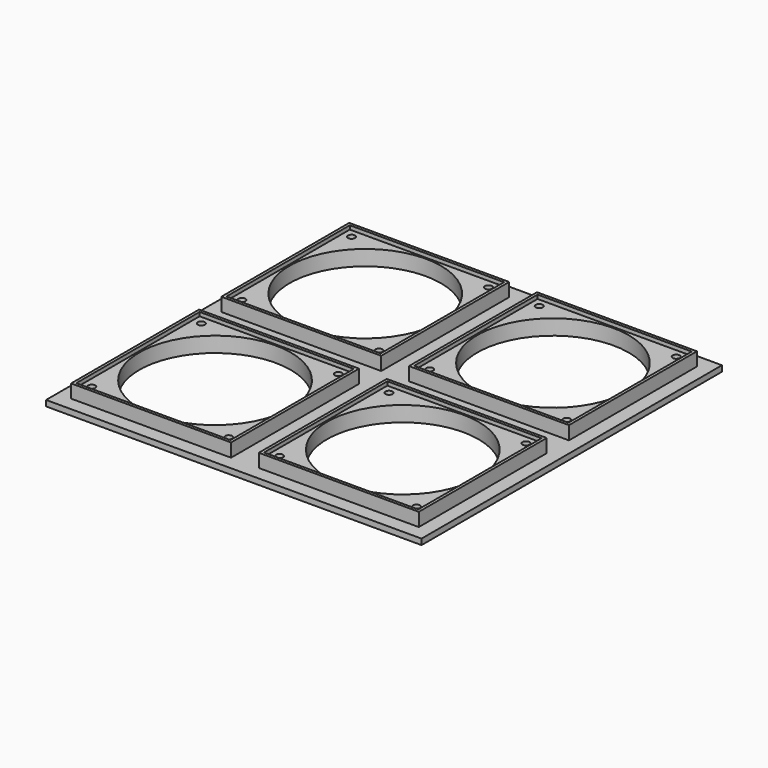
from build123d import *

# Parameters (mm, degrees)
SKETCH009_W     = 98
SKETCH009_H     = 98
PAD003_DEPTH    = 3
SKETCH006_W     = 83.5
SKETCH006_H     = 83.5
PAD002_DEPTH    = 7
SKETCH011_R     = 39.5
POCKET007_DEPTH = 10
SKETCH007_W     = 80.5
SKETCH007_H     = 80.5
POCKET004_DEPTH = 2
SKETCH010_R     = 1.85
POCKET006_DEPTH = 8
SKETCH008_R     = 2.75
POCKET005_DEPTH = 5
CHAMFER001_SIZE = 0.5
SKETCH015_W     = 98
SKETCH015_H     = 98
PAD005_DEPTH    = 3
SKETCH012_W     = 83.5
SKETCH012_H     = 83.5
PAD004_DEPTH    = 7
SKETCH017_R     = 39.5
POCKET011_DEPTH = 10
SKETCH013_W     = 80.5
SKETCH013_H     = 80.5
POCKET008_DEPTH = 2
SKETCH016_R     = 1.85
POCKET010_DEPTH = 8
SKETCH014_R     = 2.75
POCKET009_DEPTH = 5
CHAMFER002_SIZE = 0.5
SKETCH021_W     = 98
SKETCH021_H     = 98
PAD007_DEPTH    = 3
SKETCH018_W     = 83.5
SKETCH018_H     = 83.5
PAD006_DEPTH    = 7
SKETCH023_R     = 39.5
POCKET015_DEPTH = 10
SKETCH019_W     = 80.5
SKETCH019_H     = 80.5
POCKET012_DEPTH = 2
SKETCH022_R     = 1.85
POCKET014_DEPTH = 8
SKETCH020_R     = 2.75
POCKET013_DEPTH = 5
CHAMFER003_SIZE = 0.5
SKETCH_W        = 98
SKETCH_H        = 98
PAD_DEPTH       = 3
SKETCH001_W     = 83.5
SKETCH001_H     = 83.5
PAD001_DEPTH    = 7
SKETCH002_R     = 39.5
POCKET_DEPTH    = 10
SKETCH003_W     = 80.5
SKETCH003_H     = 80.5
POCKET001_DEPTH = 2
SKETCH004_R     = 1.85
POCKET002_DEPTH = 8
SKETCH005_R     = 2.75
POCKET003_DEPTH = 5
CHAMFER_SIZE    = 0.5


with BuildPart() as body001:
    # Sketch009 → Pad003 (new body)
    with BuildSketch(Plane.XY):
        Rectangle(SKETCH009_W, SKETCH009_H)
    extrude(amount=PAD003_DEPTH)

    # Sketch006 (on Face6 of Pad003) → Pad002 (join)
    with BuildSketch(Plane.XY.offset(3)):
        Rectangle(SKETCH006_W, SKETCH006_H)
    extrude(amount=PAD002_DEPTH)

    # Sketch011 (on Face11 of Pad002) → Pocket007 (cut)
    with BuildSketch(Plane.XY.offset(10)):
        Circle(SKETCH011_R)
    extrude(amount=-POCKET007_DEPTH, mode=Mode.SUBTRACT)

    # Sketch007 (on Face12 of Pocket007) → Pocket004 (cut)
    with BuildSketch(Plane.XY.offset(10)):
        Rectangle(SKETCH007_W, SKETCH007_H)
    extrude(amount=-POCKET004_DEPTH, mode=Mode.SUBTRACT)

    # Sketch010 (on Face12 of Pocket004) → Pocket006 (cut)
    with BuildSketch(Plane.XY.offset(8)):
        with Locations((-35.75, 35.75)):
            Circle(SKETCH010_R)
        with Locations((35.75, 35.75)):
            Circle(SKETCH010_R)
        with Locations((35.75, -35.75)):
            Circle(SKETCH010_R)
        with Locations((-35.75, -35.75)):
            Circle(SKETCH010_R)
    extrude(amount=-POCKET006_DEPTH, mode=Mode.SUBTRACT)

    # Sketch008 (on Face4 of Pocket006) → Pocket005 (cut)
    with BuildSketch(Plane(origin=(0, 0, 0), x_dir=(1, 0, 0), z_dir=(0, 0, -1))):
        with Locations((-35.75, 35.75)):
            Circle(SKETCH008_R)
        with Locations((35.75, 35.75)):
            Circle(SKETCH008_R)
        with Locations((35.75, -35.75)):
            Circle(SKETCH008_R)
        with Locations((-35.75, -35.75)):
            Circle(SKETCH008_R)
    extrude(amount=-POCKET005_DEPTH, mode=Mode.SUBTRACT)

    # Chamfer001
    chamfer001_edges = [body001.edges().sort_by_distance(p)[0] for p in [
        (33, 35.75, 0),
        (33, -35.75, 0),
        (-38.5, -35.75, 0),
        (-38.5, 35.75, 0),
    ]]
    chamfer(chamfer001_edges, length=CHAMFER001_SIZE)


with BuildPart() as body001_1:
    # Body001 placement: moved
    add(body001.part.moved(Location((98, 0, 0))))


with BuildPart() as body002:
    # Sketch015 → Pad005 (new body)
    with BuildSketch(Plane.XY):
        Rectangle(SKETCH015_W, SKETCH015_H)
    extrude(amount=PAD005_DEPTH)

    # Sketch012 (on Face6 of Pad005) → Pad004 (join)
    with BuildSketch(Plane.XY.offset(3)):
        Rectangle(SKETCH012_W, SKETCH012_H)
    extrude(amount=PAD004_DEPTH)

    # Sketch017 (on Face11 of Pad004) → Pocket011 (cut)
    with BuildSketch(Plane.XY.offset(10)):
        Circle(SKETCH017_R)
    extrude(amount=-POCKET011_DEPTH, mode=Mode.SUBTRACT)

    # Sketch013 (on Face12 of Pocket011) → Pocket008 (cut)
    with BuildSketch(Plane.XY.offset(10)):
        Rectangle(SKETCH013_W, SKETCH013_H)
    extrude(amount=-POCKET008_DEPTH, mode=Mode.SUBTRACT)

    # Sketch016 (on Face12 of Pocket008) → Pocket010 (cut)
    with BuildSketch(Plane.XY.offset(8)):
        with Locations((-35.75, 35.75)):
            Circle(SKETCH016_R)
        with Locations((35.75, 35.75)):
            Circle(SKETCH016_R)
        with Locations((35.75, -35.75)):
            Circle(SKETCH016_R)
        with Locations((-35.75, -35.75)):
            Circle(SKETCH016_R)
    extrude(amount=-POCKET010_DEPTH, mode=Mode.SUBTRACT)

    # Sketch014 (on Face4 of Pocket010) → Pocket009 (cut)
    with BuildSketch(Plane(origin=(0, 0, 0), x_dir=(1, 0, 0), z_dir=(0, 0, -1))):
        with Locations((-35.75, 35.75)):
            Circle(SKETCH014_R)
        with Locations((35.75, 35.75)):
            Circle(SKETCH014_R)
        with Locations((35.75, -35.75)):
            Circle(SKETCH014_R)
        with Locations((-35.75, -35.75)):
            Circle(SKETCH014_R)
    extrude(amount=-POCKET009_DEPTH, mode=Mode.SUBTRACT)

    # Chamfer002
    chamfer002_edges = [body002.edges().sort_by_distance(p)[0] for p in [
        (33, 35.75, 0),
        (33, -35.75, 0),
        (-38.5, -35.75, 0),
        (-38.5, 35.75, 0),
    ]]
    chamfer(chamfer002_edges, length=CHAMFER002_SIZE)


with BuildPart() as body002_1:
    # Body002 placement: moved
    add(body002.part.moved(Location((0, 98, 0))))


with BuildPart() as body003:
    # Sketch021 → Pad007 (new body)
    with BuildSketch(Plane.XY):
        Rectangle(SKETCH021_W, SKETCH021_H)
    extrude(amount=PAD007_DEPTH)

    # Sketch018 (on Face6 of Pad007) → Pad006 (join)
    with BuildSketch(Plane.XY.offset(3)):
        Rectangle(SKETCH018_W, SKETCH018_H)
    extrude(amount=PAD006_DEPTH)

    # Sketch023 (on Face11 of Pad006) → Pocket015 (cut)
    with BuildSketch(Plane.XY.offset(10)):
        Circle(SKETCH023_R)
    extrude(amount=-POCKET015_DEPTH, mode=Mode.SUBTRACT)

    # Sketch019 (on Face12 of Pocket015) → Pocket012 (cut)
    with BuildSketch(Plane.XY.offset(10)):
        Rectangle(SKETCH019_W, SKETCH019_H)
    extrude(amount=-POCKET012_DEPTH, mode=Mode.SUBTRACT)

    # Sketch022 (on Face12 of Pocket012) → Pocket014 (cut)
    with BuildSketch(Plane.XY.offset(8)):
        with Locations((-35.75, 35.75)):
            Circle(SKETCH022_R)
        with Locations((35.75, 35.75)):
            Circle(SKETCH022_R)
        with Locations((35.75, -35.75)):
            Circle(SKETCH022_R)
        with Locations((-35.75, -35.75)):
            Circle(SKETCH022_R)
    extrude(amount=-POCKET014_DEPTH, mode=Mode.SUBTRACT)

    # Sketch020 (on Face4 of Pocket014) → Pocket013 (cut)
    with BuildSketch(Plane(origin=(0, 0, 0), x_dir=(1, 0, 0), z_dir=(0, 0, -1))):
        with Locations((-35.75, 35.75)):
            Circle(SKETCH020_R)
        with Locations((35.75, 35.75)):
            Circle(SKETCH020_R)
        with Locations((35.75, -35.75)):
            Circle(SKETCH020_R)
        with Locations((-35.75, -35.75)):
            Circle(SKETCH020_R)
    extrude(amount=-POCKET013_DEPTH, mode=Mode.SUBTRACT)

    # Chamfer003
    chamfer003_edges = [body003.edges().sort_by_distance(p)[0] for p in [
        (33, 35.75, 0),
        (33, -35.75, 0),
        (-38.5, -35.75, 0),
        (-38.5, 35.75, 0),
    ]]
    chamfer(chamfer003_edges, length=CHAMFER003_SIZE)


with BuildPart() as body003_1:
    # Body003 placement: moved
    add(body003.part.moved(Location((98, 98, 0))))


with BuildPart() as body004:
    # Sketch → Pad (new body)
    with BuildSketch(Plane.XY):
        Rectangle(SKETCH_W, SKETCH_H)
    extrude(amount=PAD_DEPTH)

    # Sketch001 (on Face6 of Pad) → Pad001 (join)
    with BuildSketch(Plane.XY.offset(3)):
        Rectangle(SKETCH001_W, SKETCH001_H)
    extrude(amount=PAD001_DEPTH)

    # Sketch002 (on Face11 of Pad001) → Pocket (cut)
    with BuildSketch(Plane.XY.offset(10)):
        Circle(SKETCH002_R)
    extrude(amount=-POCKET_DEPTH, mode=Mode.SUBTRACT)

    # Sketch003 (on Face12 of Pocket) → Pocket001 (cut)
    with BuildSketch(Plane.XY.offset(10)):
        Rectangle(SKETCH003_W, SKETCH003_H)
    extrude(amount=-POCKET001_DEPTH, mode=Mode.SUBTRACT)

    # Sketch004 (on Face12 of Pocket001) → Pocket002 (cut)
    with BuildSketch(Plane.XY.offset(8)):
        with Locations((-35.75, 35.75)):
            Circle(SKETCH004_R)
        with Locations((35.75, 35.75)):
            Circle(SKETCH004_R)
        with Locations((35.75, -35.75)):
            Circle(SKETCH004_R)
        with Locations((-35.75, -35.75)):
            Circle(SKETCH004_R)
    extrude(amount=-POCKET002_DEPTH, mode=Mode.SUBTRACT)

    # Sketch005 (on Face4 of Pocket002) → Pocket003 (cut)
    with BuildSketch(Plane(origin=(0, 0, 0), x_dir=(1, 0, 0), z_dir=(0, 0, -1))):
        with Locations((-35.75, 35.75)):
            Circle(SKETCH005_R)
        with Locations((35.75, 35.75)):
            Circle(SKETCH005_R)
        with Locations((35.75, -35.75)):
            Circle(SKETCH005_R)
        with Locations((-35.75, -35.75)):
            Circle(SKETCH005_R)
    extrude(amount=-POCKET003_DEPTH, mode=Mode.SUBTRACT)

    # Chamfer
    chamfer_edges = [body004.edges().sort_by_distance(p)[0] for p in [
        (33, 35.75, 0),
        (33, -35.75, 0),
        (-38.5, -35.75, 0),
        (-38.5, 35.75, 0),
    ]]
    chamfer(chamfer_edges, length=CHAMFER_SIZE)

    # Fusion: union Body001, Body002, Body003
    add(body001_1.part)
    add(body002_1.part)
    add(body003_1.part)


solid = body004.part
